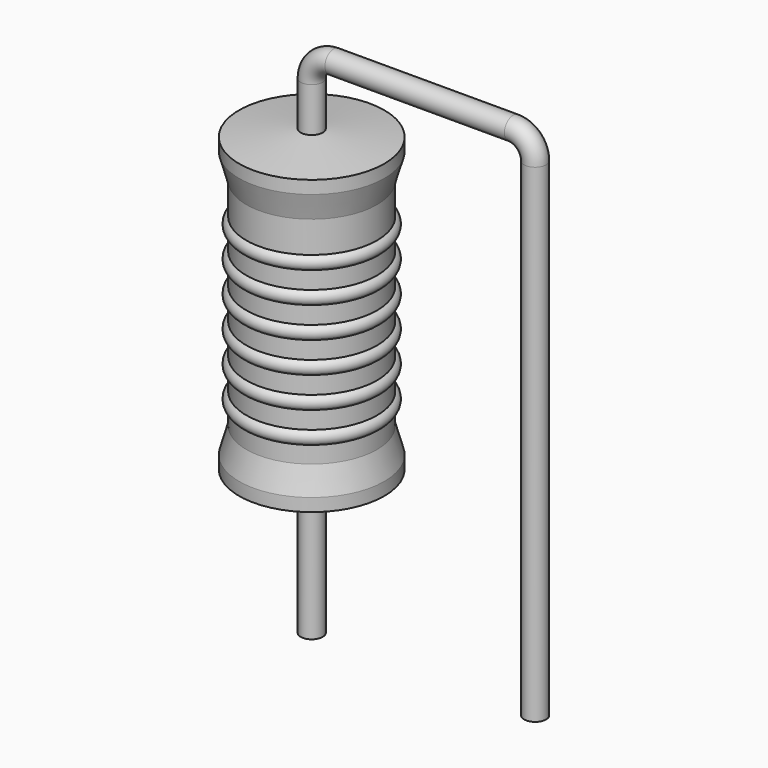
from build123d import *

# Parameters (mm, degrees)
SKETCH_R = 0.25


with BuildPart() as sweep_body:
    # Sweep: sweep along a path in Sketch001
    with BuildLine(Plane.XZ) as sweep_path:
        Line((0, -3), (0, 8.1))
        ThreePointArc((0, 8.1), (0.146444, 8.453551), (0.499992, 8.6))
        Line((0.499992, 8.6), (4.58, 8.6))
        ThreePointArc((4.58, 8.6), (4.933553, 8.453553), (5.08, 8.1))
        Line((5.08, 8.1), (5.08, -3))
    # Sketch → Sweep (sweep)
    with BuildSketch(Plane.XY.offset(-2)):
        Circle(SKETCH_R)
    sweep(path=sweep_path.line)


with BuildPart() as revolution:
    # Sketch002 → Revolution (revolve)
    with BuildSketch(Plane.XZ):
        Polygon((0, 0.1), (0, 7.1), (0.1875, 7.1), (1.65, 6.925), (1.65, 6.6325), (1.485, 6.05), (1.485, 1.15), (1.65, 0.5675), (1.65, 0.275), (0.1875, 0.1), align=None)
    revolve(axis=Axis((0, 0, 0), (0, 0, 1)))


with BuildPart() as revolution001:
    # Sketch003 → Revolution001 (revolve)
    with BuildSketch(Plane.XZ):
        with BuildLine():
            Line((1.32, 5.72), (1.32, 1.15))
            Line((1.32, 1.15), (1.419, 1.15))
            Line((1.419, 1.15), (1.419, 1.52))
            ThreePointArc((1.419, 1.52), (1.584, 1.685), (1.419, 1.85))
            Line((1.419, 1.85), (1.419, 2.22))
            ThreePointArc((1.419, 2.22), (1.584, 2.385), (1.419, 2.55))
            Line((1.419, 2.55), (1.419, 2.92))
            ThreePointArc((1.419, 2.92), (1.584, 3.085), (1.419, 3.25))
            Line((1.419, 3.25), (1.419, 3.62))
            ThreePointArc((1.419, 3.62), (1.584, 3.785), (1.419, 3.95))
            Line((1.419, 3.95), (1.419, 4.32))
            ThreePointArc((1.419, 4.32), (1.584, 4.485), (1.419, 4.65))
            Line((1.419, 4.65), (1.419, 5.02))
            ThreePointArc((1.419, 5.02), (1.584, 5.185), (1.419, 5.35))
            Line((1.419, 5.72), (1.419, 5.35))
            Line((1.32, 5.72), (1.419, 5.72))
        make_face()
    revolve(axis=Axis((0, 0, 0), (0, 0, 1)))


solid = Compound([sweep_body.part, revolution.part, revolution001.part])
